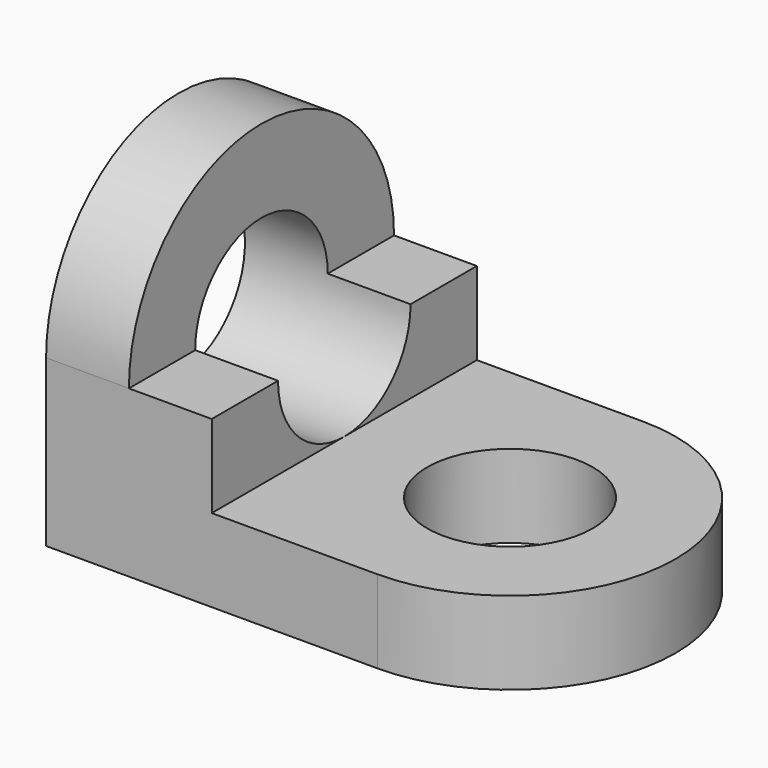
from build123d import *

# Parameters (mm, degrees)
F0_W      = 40
F0_H      = 40
F1_DEPTH  = 10
F3_DEPTH  = 10
F4_R      = 10
F5_DEPTH  = 10
F6_W      = 20
F6_H      = 40
F7_DEPTH  = 10
F9_DEPTH  = 10
F10_R     = 10
F11_DEPTH = 20


with BuildPart() as f1:
    # F0 (on Top) → F1 (new body)
    with BuildSketch(Plane.XY):
        Rectangle(F0_W, F0_H)
    extrude(amount=F1_DEPTH)

    # F2 (on face) → F3 (join)
    with BuildSketch(Plane(origin=(0, 0, 0), x_dir=(1, 0, 0), z_dir=(0, 0, -1))):
        with BuildLine():
            Line((20, 20), (20, -20))
            ThreePointArc((20, -20), (40, 0), (20, 20))
        make_face()
    extrude(amount=-F3_DEPTH)

    # F4 (on face) → F5 (cut)
    with BuildSketch(Plane.XY.offset(10)):
        with Locations((20, 0)):
            Circle(F4_R)
    extrude(amount=-F5_DEPTH, mode=Mode.SUBTRACT)

    # F6 (on face) → F7 (join)
    with BuildSketch(Plane.XY.offset(10)):
        with Locations((-10, 0)):
            Rectangle(F6_W, F6_H)
    extrude(amount=F7_DEPTH)

    # F8 (on face) → F9 (join)
    with BuildSketch(Plane(origin=(-20, 0, 0), x_dir=(0, -1, 0), z_dir=(-1, 0, 0))):
        with BuildLine():
            Line((-20, 20), (20, 20))
            ThreePointArc((20, 20), (0, 40), (-20, 20))
        make_face()
    extrude(amount=-F9_DEPTH)

    # F10 (on face) → F11 (cut)
    with BuildSketch(Plane(origin=(-20, 0, 0), x_dir=(0, -1, 0), z_dir=(-1, 0, 0))):
        with Locations((0, 20)):
            Circle(F10_R)
    extrude(amount=-F11_DEPTH, mode=Mode.SUBTRACT)


solid = f1.part
